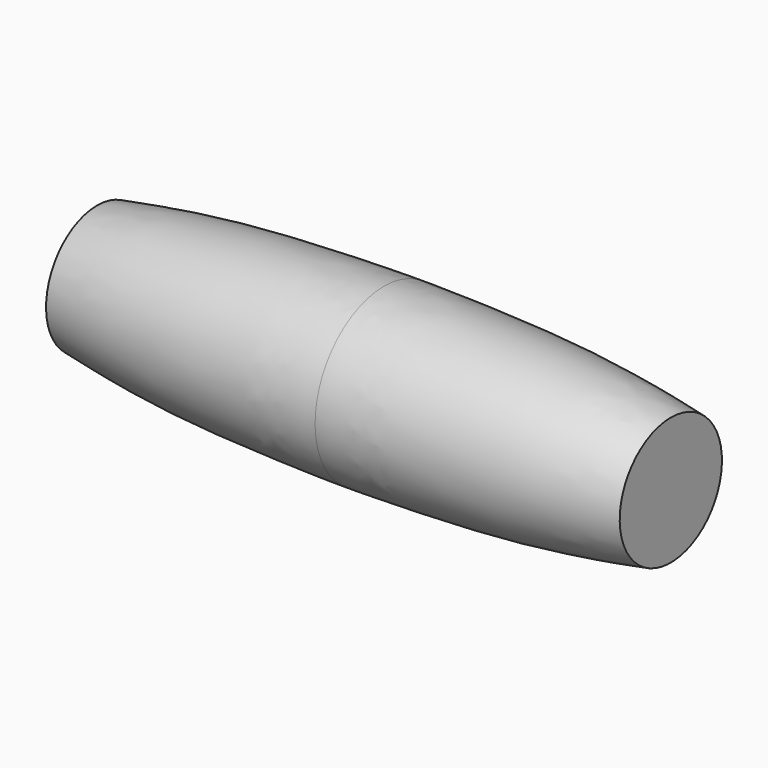
from build123d import *


with BuildPart() as f1:
    # F0 (on Front) → F1 (revolve)
    with BuildSketch(Plane.XZ):
        with BuildLine():
            Line((0.0034824786, 13.5000242619), (0, 0))
            Line((0, 0), (45.0000029945, 0))
            Line((45.0000029945, 0), (45.0000029945, 10))
            add(Edge.make_bspline(
                [(0.0034824786, 13.5000242619), (2.9866852604, 13.5000242619), (23.7394692667, 13.2405500523), (37.0251067946, 11.3987135709), (45.0000029945, 10)],
                knots=[0, 0, 0, 0, 0.4873308655, 1, 1, 1, 1], degree=3))
        make_face()
        with BuildLine():
            Line((-44.9999970055, 0.0232164822), (0, 0))
            Line((0, 0), (0.0034824786, 13.5000242619))
            add(Edge.make_bspline(
                [(0.0034824786, 13.5000242619), (-2.9797199062, 13.5015633612), (-23.7326350189, 13.2527959997), (-37.0192210223, 11.4178141134), (-44.9948377876, 10.0232151514)],
                knots=[0, 0, 0, 0, 0.4873308655, 1, 1, 1, 1], degree=3))
            Line((-44.9948377876, 10.0232151514), (-44.9999970055, 0.0232164822))
        make_face()
    revolve(axis=Axis((-22.4999985028, 0, 0.0116082411), (0.9999998669, 0, -0.0005159218)))


solid = f1.part
